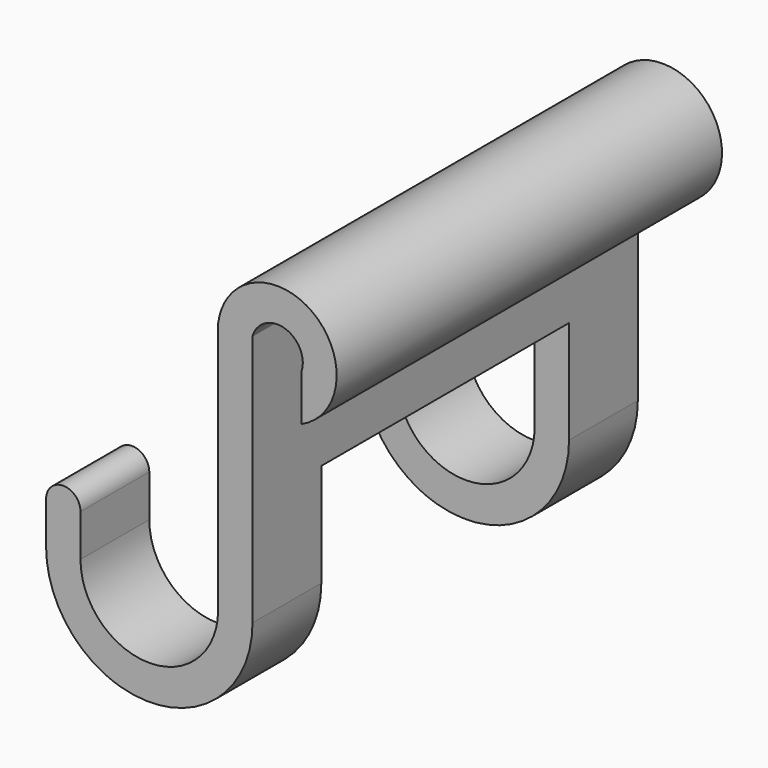
from build123d import *

# Parameters (mm, degrees)
F1_DEPTH = 42
F3_DEPTH = 16.5


with BuildPart() as f1:
    # F0 (on Front) → F1 (new body)
    with BuildSketch(Plane.XZ):
        with BuildLine():
            Line((0, 22), (0, 13.536567))
            Line((0, 13.536567), (0, 0))
            ThreePointArc((0, 0), (-6, -6), (-12, 0))
            Line((-12, 0), (-12, 3.663141))
            ThreePointArc((-12, 3.663141), (-13.5, 5.163141), (-15, 3.663141))
            Line((-15, 3.663141), (-15, 0))
            ThreePointArc((-15, 0), (-13.649713, -4.741507), (-10.004025, -8.060259))
            Line((-10.004025, -8.060259), (-8.524168, -8.638783))
            ThreePointArc((-8.524168, -8.638783), (-0.601737, -7.201302), (3, 0))
            Line((3, 0), (3, 22))
            ThreePointArc((3, 22), (5.843606, 23.509868), (7.25, 20.613689))
            Line((7.25, 20.613689), (7.25, 16.640851))
            ThreePointArc((7.25, 16.640851), (8.233139, 25.554439), (0, 22))
        make_face()
        with BuildLine():
            Line((-8.524168, -8.638783), (-10.004025, -8.060259))
            ThreePointArc((-10.004025, -8.060259), (-9.276889, -8.382243), (-8.524168, -8.638783))
        make_face()
    extrude(amount=F1_DEPTH)

    # F2 (on face) → F3 (cut, symmetric)
    with BuildSketch(Plane(origin=(0, 0, 0), x_dir=(0, -1, 0), z_dir=(-1, 0, 0))):
        Polygon((7.5, 9), (7.5, -16.111853), (34.5, -18.625535), (34.5, 9), align=None)
    extrude(amount=F3_DEPTH, both=True, mode=Mode.SUBTRACT)


solid = f1.part
